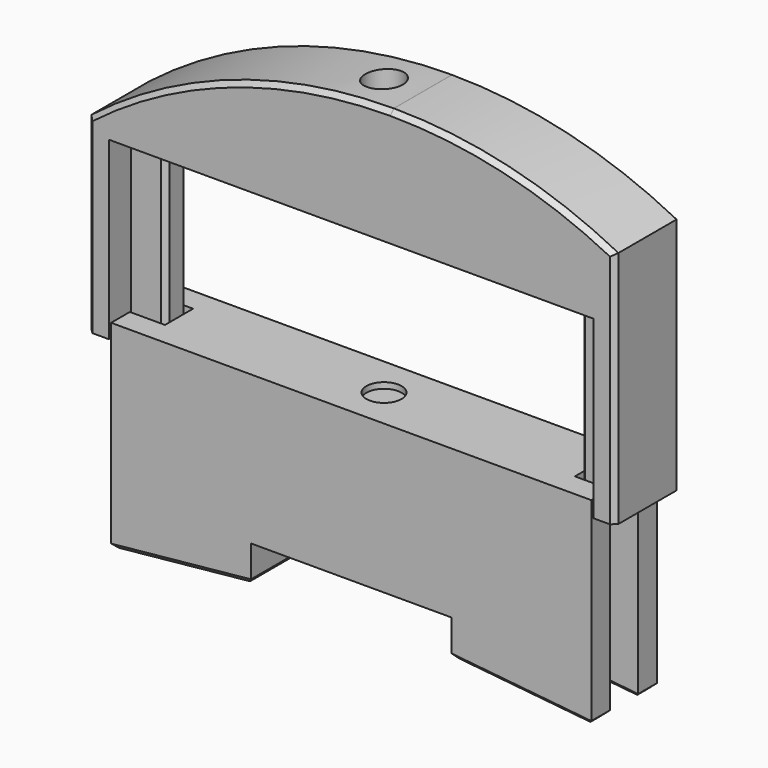
from build123d import *

# Parameters (mm, degrees)
PAD_DEPTH            = 3.5
PAD_DEPTH_BACK       = 3.5
SKETCH001_W          = 3
SKETCH001_H          = 3
POCKET_DEPTH         = 20
SKETCH006_R          = 1.5
POCKET004_DEPTH      = 0.5
CHAMFER_SIZE         = 0.4
SKETCH002_W          = 45
SKETCH002_H          = 25
PAD001_DEPTH         = 3.5
PAD001_DEPTH_BACK    = 3.5
POCKET001_DEPTH      = 15
SKETCH004_R          = 1.6
POCKET002_DEPTH      = 11
POCKET003_DEPTH      = 20
POCKET003_DEPTH_BACK = -20
CHAMFER001_SIZE      = 0.4
SKETCH007_R          = 2.1
POCKET005_DEPTH      = 6


with BuildPart() as bottom:
    # Sketch → Pad (new body, two sides)
    with BuildSketch(Plane.XZ) as pad_sk:
        Polygon((20.5, 0), (8.560151, 1.2), (8.560151, 4.3), (-8.560151, 4.3), (-8.560151, 1.2), (-20.5, 0), (-20.5, 17), (20.5, 17), align=None)
    extrude(amount=PAD_DEPTH)
    extrude(pad_sk.sketch, amount=-PAD_DEPTH_BACK)

    # Sketch001 (on Face7 of Pad) → Pocket (cut)
    with BuildSketch(Plane(origin=(0, 0, 17), x_dir=(-1, 0, 0), z_dir=(0, 0, 1))):
        with Locations((-19, 0)):
            Rectangle(SKETCH001_W, SKETCH001_H)
        with Locations((19, 0)):
            Rectangle(SKETCH001_W, SKETCH001_H)
    extrude(amount=-POCKET_DEPTH, mode=Mode.SUBTRACT)

    # Sketch006 (on Face14 of Pocket) → Pocket004 (cut)
    with BuildSketch(Plane(origin=(0, 0, 17), x_dir=(-1, 0, 0), z_dir=(0, 0, 1))):
        Circle(SKETCH006_R)
    extrude(amount=-POCKET004_DEPTH, mode=Mode.SUBTRACT)

    # Chamfer
    chamfer_edges = [bottom.edges().sort_by_distance(p)[0] for p in [
        (14.530075, -3.5, 0.6),
        (20.5, -2.5, 0),
        (19, -1.5, 0.150756),
        (17.5, 0, 0.301511),
        (19, 1.5, 0.150756),
        (20.5, 2.5, 0),
        (14.530075, 3.5, 0.6),
        (8.560151, 0, 1.2),
        (-8.560151, 0, 1.2),
        (-14.530075, -3.5, 0.6),
        (-14.530075, 3.5, 0.6),
        (-20.5, 2.5, 0),
        (-19, 1.5, 0.150756),
        (-17.5, 0, 0.301511),
        (-19, -1.5, 0.150756),
        (-20.5, -2.5, 0),
    ]]
    chamfer(chamfer_edges, length=CHAMFER_SIZE)


with BuildPart() as top:
    # Sketch002 → Pad001 (new body, two sides)
    with BuildSketch(Plane.XZ) as pad001_sk:
        with Locations((0, 12.5)):
            Rectangle(SKETCH002_W, SKETCH002_H)
    extrude(amount=PAD001_DEPTH)
    extrude(pad001_sk.sketch, amount=-PAD001_DEPTH_BACK)

    # Sketch003 (on Face2 of Pad001) → Pocket001 (cut)
    with BuildSketch(Plane(origin=(0, 0, 0), x_dir=(1, 0, 0), z_dir=(0, 0, -1))):
        Polygon((-17.7, 1.15), (-17.7, -1.15), (-20.7, -1.15), (-20.7, -5), (20.7, -5), (20.7, -1.15), (17.7, -1.15), (17.7, 1.15), (20.7, 1.15), (20.7, 5), (-20.7, 5), (-20.7, 1.15), align=None)
    extrude(amount=-POCKET001_DEPTH, mode=Mode.SUBTRACT)

    # Sketch004 (on Face2 of Pocket001) → Pocket002 (cut)
    with BuildSketch(Plane(origin=(0, 0, 25), x_dir=(-1, 0, 0), z_dir=(0, 0, 1))):
        Circle(SKETCH004_R)
    extrude(amount=-POCKET002_DEPTH, mode=Mode.SUBTRACT)

    # Sketch005 (on Face5 of Pocket002) → Pocket003 (cut, two sides)
    with BuildSketch(Plane.XZ.offset(3.5)) as pocket003_sk:
        with BuildLine():
            ThreePointArc((22.5, 20.366852), (-0.619595, 24.814447), (-22.5, 16.122805))
            Line((-22.5, 16.122805), (-22.5, 40.366852))
            Line((-22.5, 40.366852), (22.5, 40.366852))
            Line((22.5, 20.366852), (22.5, 40.366852))
        make_face()
    extrude(amount=-POCKET003_DEPTH, mode=Mode.SUBTRACT)
    extrude(pocket003_sk.sketch, amount=-POCKET003_DEPTH_BACK, mode=Mode.SUBTRACT)

    # Chamfer001
    chamfer001_edges = [top.edges().sort_by_distance(p)[0] for p in [
        (-19.2, -1.15, 0),
        (-19.2, 1.15, 0),
        (-17.7, 0, 0),
        (19.2, 1.15, 0),
        (17.7, 0, 0),
        (19.2, -1.15, 0),
        (-22.5, 3.5, 8.061403),
        (-22.5, -3.5, 8.061403),
        (22.5, 3.5, 10.183426),
        (22.5, -3.5, 10.183426),
        (-10.329595, -3.5, 22.718748),
        (13.187895, -3.5, 23.825285),
        (13.187895, 3.5, 23.825285),
        (-10.329595, 3.5, 22.718748),
        (-17.7, 1.15, 7.5),
        (-17.7, -1.15, 7.5),
        (17.7, -1.15, 7.5),
        (17.7, 1.15, 7.5),
    ]]
    chamfer(chamfer001_edges, length=CHAMFER001_SIZE)

    # Sketch007 (on Face19 of Chamfer001) → Pocket005 (cut)
    with BuildSketch(Plane(origin=(0, 0, 15), x_dir=(1, 0, 0), z_dir=(0, 0, -1))):
        Circle(SKETCH007_R)
    extrude(amount=-POCKET005_DEPTH, mode=Mode.SUBTRACT)


with BuildPart() as top_1:
    # Body001 placement: moved
    add(top.part.moved(Location((0, 0, 15.7))))


solid = Compound([bottom.part, top_1.part])
